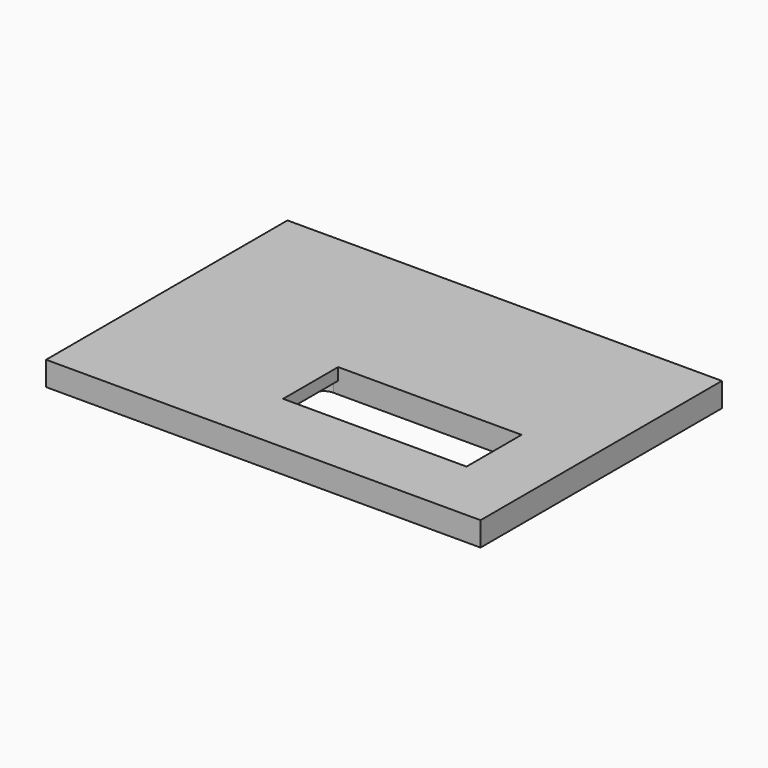
from build123d import *

# Parameters (mm, degrees)
F0_W     = 180
F0_H     = 125
F1_DEPTH = 10
F3_DEPTH = 5
F4_W     = 76
F4_H     = 28.5
F5_DEPTH = 5.001


with BuildPart() as f1:
    # F0 (on Top) → F1 (new body)
    with BuildSketch(Plane.XY):
        Rectangle(F0_W, F0_H)
    extrude(amount=F1_DEPTH)

    # F2 (on face) → F3 (cut)
    with BuildSketch(Plane(origin=(0, 0, 0), x_dir=(1, 0, 0), z_dir=(0, 0, -1))):
        with BuildLine():
            Line((70, 12.5), (70, 37.5))
            ThreePointArc((70, 37.5), (68.535534, 41.035534), (65, 42.5))
            Line((65, 42.5), (-15, 42.5))
            ThreePointArc((-15, 42.5), (-18.535534, 41.035534), (-20, 37.5))
            Line((-20, 37.5), (-20, 12.5))
            ThreePointArc((-20, 12.5), (-18.535534, 8.964466), (-15, 7.5))
            Line((-15, 7.5), (65, 7.5))
            ThreePointArc((65, 7.5), (68.535534, 8.964466), (70, 12.5))
        make_face()
    extrude(amount=-F3_DEPTH, mode=Mode.SUBTRACT)

    # F4 (on face) → F5 (cut, through all)
    with BuildSketch(Plane(origin=(0, 0, 5), x_dir=(1, 0, 0), z_dir=(0, 0, -1))):
        with Locations((25, 21.75)):
            Rectangle(F4_W, F4_H)
    extrude(amount=-F5_DEPTH, mode=Mode.SUBTRACT)


solid = f1.part
